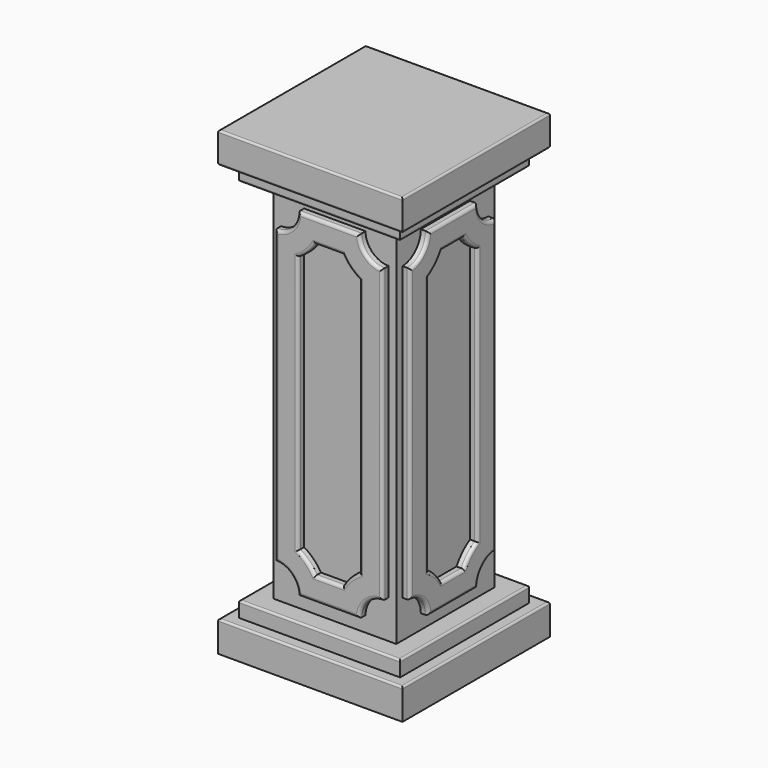
from build123d import *

# Parameters (mm, degrees)
F0_W      = 304.8
F0_H      = 304.8
F1_DEPTH  = 50.8
F2_W      = 203.2
F2_H      = 203.2
F3_DEPTH  = 660.4
F4_W      = 304.8
F4_H      = 304.8
F5_DEPTH  = 50.8
F6_W      = 266.7
F6_H      = 266.7
F7_DEPTH  = 25.4
F8_W      = 266.7
F8_H      = 266.7
F9_DEPTH  = 25.4
F10_R     = 3.175
F11_R     = 3.175
F12_R     = 3.175
F13_R     = 3.175
F15_DEPTH = 12.7
F17_DEPTH = 12.7
F18_R     = 3.175
F19_R     = 5.08
F20_R     = 5.08


with BuildPart() as f1:
    # F0 (on Top) → F1 (new body)
    with BuildSketch(Plane.XY):
        with Locations((152.4, -152.4)):
            Rectangle(F0_W, F0_H)
    extrude(amount=F1_DEPTH)

    # F2 (on face) → F3 (join)
    with BuildSketch(Plane.XY.offset(50.8)):
        with Locations((152.4, -152.4)):
            Rectangle(F2_W, F2_H)
    extrude(amount=F3_DEPTH)

    # F4 (on face) → F5 (join)
    with BuildSketch(Plane.XY.offset(711.2)):
        with Locations((152.4, -152.4)):
            Rectangle(F4_W, F4_H)
    extrude(amount=F5_DEPTH)

    # F6 (on face) → F7 (join)
    with BuildSketch(Plane.XY.offset(50.8)):
        with Locations((152.4, -152.4)):
            Rectangle(F6_W, F6_H)
    extrude(amount=F7_DEPTH)

    # F8 (on face) → F9 (join)
    with BuildSketch(Plane(origin=(0, 0, 711.2), x_dir=(1, 0, 0), z_dir=(0, 0, -1))):
        with Locations((152.4, 152.4)):
            Rectangle(F8_W, F8_H)
    extrude(amount=F9_DEPTH)

    # F10
    f10_edges = [f1.edges().sort_by_distance(p)[0] for p in [
        (152.4, -285.75, 76.2),
        (285.75, -152.4, 76.2),
        (152.4, -19.05, 76.2),
        (19.05, -152.4, 76.2),
    ]]
    fillet(f10_edges, radius=F10_R)

    # F11
    f11_edges = [f1.edges().sort_by_distance(p)[0] for p in [
        (304.8, -152.4, 50.8),
        (152.4, -304.8, 50.8),
        (0, -152.4, 50.8),
        (152.4, 0, 50.8),
    ]]
    fillet(f11_edges, radius=F11_R)

    # F12
    f12_edges = [f1.edges().sort_by_distance(p)[0] for p in [
        (285.75, -152.4, 685.8),
        (152.4, -285.75, 685.8),
        (19.05, -152.4, 685.8),
        (152.4, -19.05, 685.8),
    ]]
    fillet(f12_edges, radius=F12_R)

    # F13
    f13_edges = [f1.edges().sort_by_distance(p)[0] for p in [
        (152.4, -304.8, 711.2),
        (0, -152.4, 711.2),
        (152.4, 0, 711.2),
        (304.8, -152.4, 711.2),
    ]]
    fillet(f13_edges, radius=F13_R)

    # F14 (on face) → F15 (join)
    with BuildSketch(Plane.XZ.offset(254)):
        with BuildLine():
            ThreePointArc((101.6, 660.4), (90.4407683632, 633.4592316368), (63.5, 622.3))
            Line((63.5, 622.3), (63.5, 139.7))
            ThreePointArc((63.5, 139.7), (90.4407683632, 128.5407683632), (101.6, 101.6))
            Line((101.6, 101.6), (203.2, 101.6))
            ThreePointArc((203.2, 101.6), (214.3592316368, 128.5407683632), (241.3, 139.7))
            Line((241.3, 139.7), (241.3, 622.3))
            ThreePointArc((241.3, 622.3), (214.3592316368, 633.4592316368), (203.2, 660.4))
            Line((203.2, 660.4), (101.6, 660.4))
        make_face()
        with BuildLine():
            ThreePointArc((129.4911357684, 139.7), (117.3815367264, 155.4815367264), (101.6, 167.5911357684))
            Line((101.6, 167.5911357684), (101.6, 594.4088642316))
            ThreePointArc((101.6, 594.4088642316), (117.3815367264, 606.5184632736), (129.4911357684, 622.3))
            Line((129.4911357684, 622.3), (175.3088642316, 622.3))
            ThreePointArc((175.3088642316, 622.3), (187.4184632736, 606.5184632736), (203.2, 594.4088642316))
            Line((203.2, 594.4088642316), (203.2, 167.5911357684))
            ThreePointArc((203.2, 167.5911357684), (187.4184632736, 155.4815367264), (175.3088642316, 139.7))
            Line((175.3088642316, 139.7), (129.4911357684, 139.7))
        make_face(mode=Mode.SUBTRACT)
    extrude(amount=F15_DEPTH)

    # F16 (on face) → F17 (join)
    with BuildSketch(Plane.YZ.offset(254)):
        with BuildLine():
            ThreePointArc((-203.3691524148, 659.1879676282), (-214.5283840516, 632.247199265), (-241.4691524148, 621.0879676282))
            Line((-241.4691524148, 621.0879676282), (-241.4691524148, 138.4879676282))
            ThreePointArc((-241.4691524148, 138.4879676282), (-214.5283840516, 127.3287359914), (-203.3691524148, 100.3879676282))
            Line((-203.3691524148, 100.3879676282), (-101.7691524148, 100.3879676282))
            ThreePointArc((-101.7691524148, 100.3879676282), (-90.609920778, 127.3287359914), (-63.6691524148, 138.4879676282))
            Line((-63.6691524148, 138.4879676282), (-63.6691524148, 621.0879676282))
            ThreePointArc((-63.6691524148, 621.0879676282), (-90.609920778, 632.247199265), (-101.7691524148, 659.1879676282))
            Line((-101.7691524148, 659.1879676282), (-203.3691524148, 659.1879676282))
        make_face()
        with BuildLine():
            ThreePointArc((-175.4780166464, 138.4879676282), (-187.5876156884, 154.2695043547), (-203.3691524148, 166.3791033966))
            Line((-203.3691524148, 166.3791033966), (-203.3691524148, 593.1968318599))
            ThreePointArc((-203.3691524148, 593.1968318599), (-187.5876156884, 605.3064309018), (-175.4780166464, 621.0879676282))
            Line((-175.4780166464, 621.0879676282), (-129.6602881832, 621.0879676282))
            ThreePointArc((-129.6602881832, 621.0879676282), (-117.5506891412, 605.3064309018), (-101.7691524148, 593.1968318599))
            Line((-101.7691524148, 593.1968318599), (-101.7691524148, 166.3791033966))
            ThreePointArc((-101.7691524148, 166.3791033966), (-117.5506891412, 154.2695043547), (-129.6602881832, 138.4879676282))
            Line((-129.6602881832, 138.4879676282), (-175.4780166464, 138.4879676282))
        make_face(mode=Mode.SUBTRACT)
    extrude(amount=F17_DEPTH)

    # F18
    f18_edges = [f1.edges().sort_by_distance(p)[0] for p in [
        (152.4, 0, 762),
        (0, -152.4, 762),
        (152.4, -304.8, 762),
        (304.8, -152.4, 762),
    ]]
    fillet(f18_edges, radius=F18_R)

    # F19
    f19_edges = [f1.edges().sort_by_distance(p)[0] for p in [
        (90.440768, -266.7, 633.459232),
        (63.5, -266.7, 381),
        (90.440768, -266.7, 128.540768),
        (152.4, -266.7, 101.6),
        (214.359232, -266.7, 128.540768),
        (241.3, -266.7, 381),
        (214.359232, -266.7, 633.459232),
        (152.4, -266.7, 660.4),
        (152.4, -266.7, 139.7),
        (117.381537, -266.7, 155.481537),
        (101.6, -266.7, 381),
        (117.381537, -266.7, 606.518463),
        (152.4, -266.7, 622.3),
        (187.418463, -266.7, 606.518463),
        (203.2, -266.7, 381),
        (187.418463, -266.7, 155.481537),
    ]]
    fillet(f19_edges, radius=F19_R)

    # F20#2 (call 1 of 2: OpenCascade refuses the feature's edges together)
    f20_2_edges = [f1.edges().sort_by_distance(p)[0] for p in [
        (266.7, -187.587616, 154.269504),
        (266.7, -203.369152, 379.787968),
        (266.7, -187.587616, 605.306431),
        (266.7, -152.569152, 621.087968),
        (266.7, -117.550689, 605.306431),
        (266.7, -101.769152, 379.787968),
        (266.7, -117.550689, 154.269504),
        (266.7, -152.569152, 138.487968),
    ]]
    fillet(f20_2_edges, radius=F20_R)

    # F20 (call 2 of 2)
    f20_edges = [f1.edges().sort_by_distance(p)[0] for p in [
        (266.7, -214.528384, 632.247199),
        (266.7, -241.469152, 379.787968),
        (266.7, -214.528384, 127.328736),
        (266.7, -152.569152, 100.387968),
        (266.7, -90.609921, 127.328736),
        (266.7, -63.669152, 379.787968),
        (266.7, -90.609921, 632.247199),
        (266.7, -152.569152, 659.187968),
    ]]
    fillet(f20_edges, radius=F20_R)


solid = f1.part
